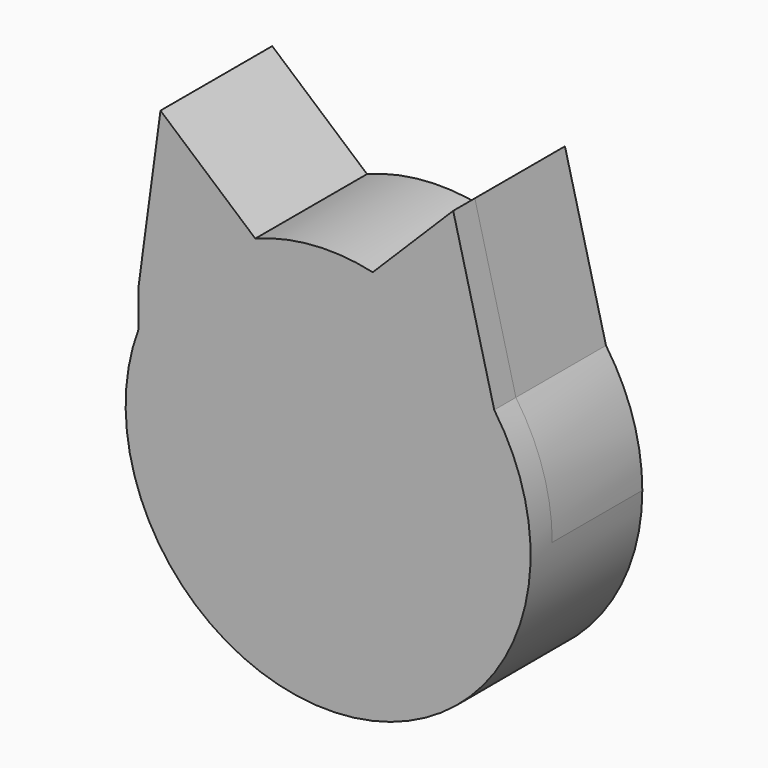
from build123d import *

# Parameters (mm, degrees)
F1_DEPTH = 25.4
F2_R     = 9.7277156986
F3_DEPTH = 6.10482


with BuildPart() as f1:
    # F0 (on Front) → F1 (new body)
    with BuildSketch(Plane.XZ):
        with BuildLine():
            ThreePointArc((-42.7792742848, 15.9947769817), (-8.1270951408, -44.9427360494), (45.6716454601, 0))
            ThreePointArc((45.6716454601, 0), (43.5737511588, 13.6831067007), (37.4727987973, 26.1091660022))
            ThreePointArc((37.4727987973, 26.1091660022), (25.4960679955, 37.8926076669), (10.0688707116, 44.5479184881))
            ThreePointArc((10.0688707116, 44.5479184881), (-3.3239307384, 45.5505289045), (-16.4293044803, 42.6142834426))
            ThreePointArc((-16.4293044803, 42.6142834426), (-32.4586426226, 32.129981608), (-42.7792742848, 15.9947769817))
        make_face()
        with BuildLine():
            Line((-42.7792742848, 24.4236253202), (-42.7792742848, 15.9947769817))
            ThreePointArc((-42.7792742848, 15.9947769817), (-32.4586426226, 32.129981608), (-16.4293044803, 42.6142834426))
            Line((-16.4293044803, 42.6142834426), (-37.8118704593, 61.0784872959))
            Line((-37.8118704593, 61.0784872959), (-42.7792742848, 24.4236253202))
        make_face()
        with BuildLine():
            ThreePointArc((10.0688707116, 44.5479184881), (25.4960679955, 37.8926076669), (37.4727987973, 26.1091660022))
            Line((37.4727987973, 26.1091660022), (28.2161161304, 62.6519098878))
            Line((28.2161161304, 62.6519098878), (10.0688707116, 44.5479184881))
        make_face()
    extrude(amount=F1_DEPTH)

    # F1_face (on face) + F2 (on Front) → F3 (join)
    with BuildSketch(Plane(origin=(-0.8175893235, -25.4, 4.7163368338), x_dir=(1, 0, 0), z_dir=(0, -1, 0))):
        with BuildLine():
            ThreePointArc((-41.9616849613, 11.2784401479), (6.5285338023, -50.0295171701), (38.2903881208, 21.3928291684))
            Line((38.2903881208, 21.3928291684), (29.0337054538, 57.935573054))
            Line((29.0337054538, 57.935573054), (10.8864600351, 39.8315816543))
            ThreePointArc((10.8864600351, 39.8315816543), (-2.5063414149, 40.8341920707), (-15.6117151568, 37.8979466088))
            Line((-15.6117151568, 37.8979466088), (-36.9942811358, 56.3621504621))
            Line((-36.9942811358, 56.3621504621), (-41.9616849613, 19.7072884864))
            Line((-41.9616849613, 19.7072884864), (-41.9616849613, 11.2784401479))
        make_face()
    with BuildSketch(Plane.XZ):
        with Locations((12.1359648183, 13.1978578866)):
            Circle(F2_R)
    extrude(amount=F3_DEPTH)


solid = f1.part
